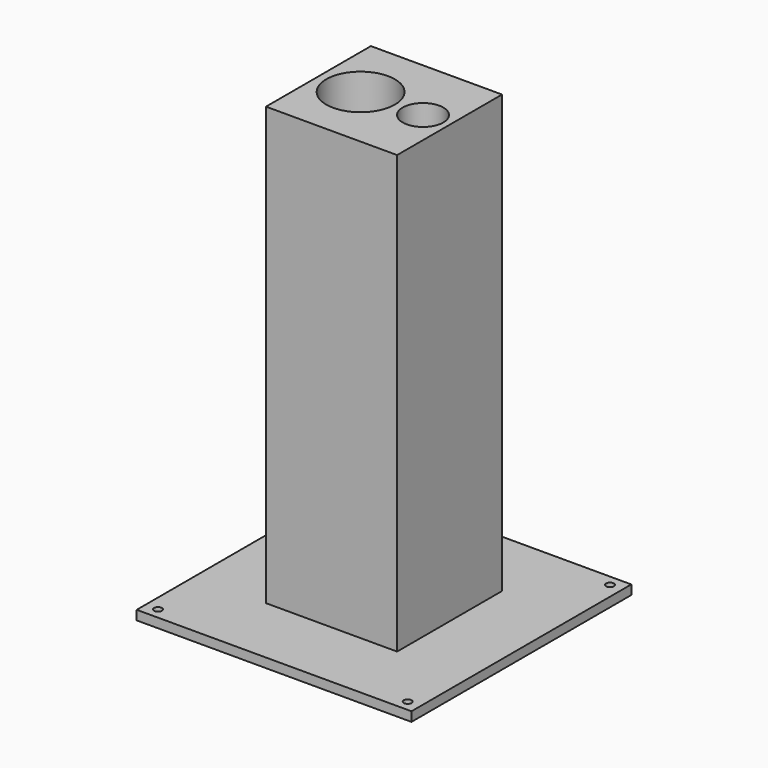
from build123d import *

# Parameters (mm, degrees)
SKETCH_W        = 88
SKETCH_H        = 88
PAD_DEPTH       = 3
SKETCH001_R     = 1.25
POCKET_DEPTH    = 5
SKETCH002_W     = 42
SKETCH002_H     = 42
PAD001_DEPTH    = 140
SKETCH003_R     = 11
SKETCH003_R_2   = 6.5
POCKET001_DEPTH = 143.001
POCKET002_DEPTH = 21
FILLET_R        = 11.3


with BuildPart() as part:
    # Sketch → Pad (new body)
    with BuildSketch(Plane.XY):
        Rectangle(SKETCH_W, SKETCH_H)
    extrude(amount=PAD_DEPTH)

    # Sketch001 (on Face6 of Pad) → Pocket (cut)
    with BuildSketch(Plane.XY.offset(3)):
        with Locations((-40, 40.5)):
            Circle(SKETCH001_R)
        with Locations((-40, -40.5)):
            Circle(SKETCH001_R)
    pocket = extrude(amount=-POCKET_DEPTH, mode=Mode.SUBTRACT)

    # Mirrored: Pocket across Sketch001 V_Axis
    add(pocket.mirror(Plane(origin=(0, 0, 3), x_dir=(0, 0, 1), z_dir=(1, 0, 0))), mode=Mode.SUBTRACT)

    # Sketch002 (on Face5 of Mirrored) → Pad001 (join)
    with BuildSketch(Plane.XY.offset(3)):
        Rectangle(SKETCH002_W, SKETCH002_H)
    extrude(amount=PAD001_DEPTH)

    # Sketch003 (on Face15 of Pad001) → Pocket001 (cut, through all)
    with BuildSketch(Plane.XY.offset(143)):
        with Locations((-7.5, 0)):
            Circle(SKETCH003_R)
        with Locations((12.5, 0)):
            Circle(SKETCH003_R_2)
    extrude(amount=-POCKET001_DEPTH, mode=Mode.SUBTRACT)

    # Sketch004 (on Face4 of Pocket001) → Pocket002 (cut)
    with BuildSketch(Plane(origin=(0, 0, 0), x_dir=(1, 0, 0), z_dir=(0, 0, -1))):
        with BuildLine():
            ThreePointArc((-8.543503, 11.38242), (-20.062494, -0.136571), (-8.543503, -11.655562))
            Line((-8.543503, -11.655562), (7.914864, -11.655562))
            ThreePointArc((7.914864, -11.655562), (19.433855, -0.136571), (7.914864, 11.38242))
            Line((-8.543503, 11.38242), (7.914864, 11.38242))
        make_face()
    extrude(amount=-POCKET002_DEPTH, mode=Mode.SUBTRACT)

    # Fillet
    fillet_edges = [part.edges().sort_by_distance(p)[0] for p in [
        (-0.31432, 11.655562, 21),
        (19.433855, 0.136571, 21),
        (-20.062494, 0.136571, 21),
        (-0.31432, -11.38242, 21),
    ]]
    fillet(fillet_edges, radius=FILLET_R)


solid = part.part
